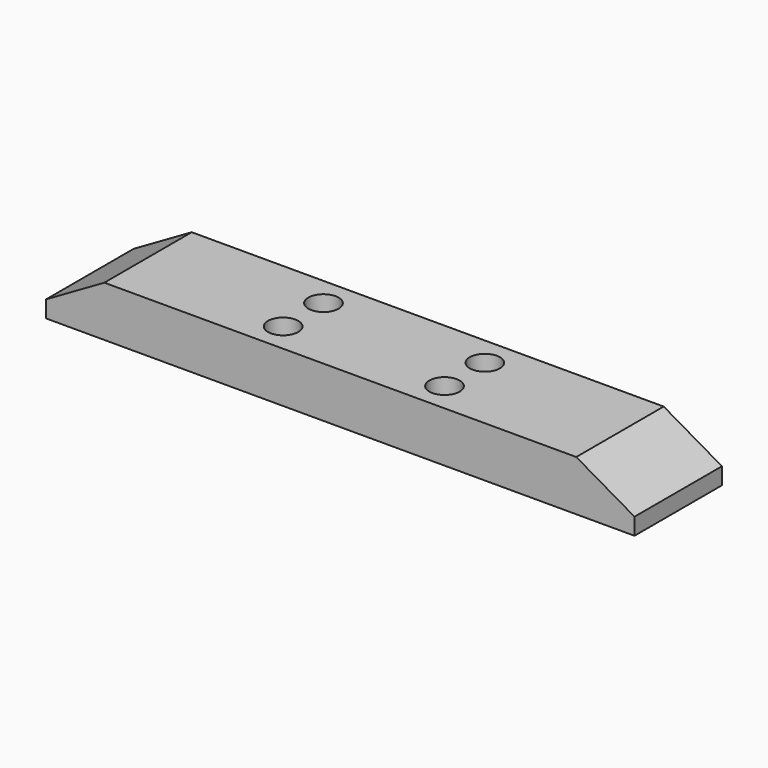
from build123d import *

# Parameters (mm, degrees)
F0_W           = 350
F0_H           = 65
F1_DEPTH       = 30
F3_D           = 11
F3_CBORE_D     = 18
F3_CBORE_DEPTH = 10
F4_SIZE2       = 34.6410161514
F4_SIZE        = 20
F4_2_SIZE2     = 34.6410161514
F4_2_SIZE      = 20


with BuildPart() as f1:
    # F0 (on Top) → F1 (new body)
    with BuildSketch(Plane.XY):
        Rectangle(F0_W, F0_H)
    extrude(amount=F1_DEPTH)

    # F3 (through all)
    with Locations(Plane.XY.offset(30)):
        with Locations((-48, 15), (48, 15), (48, -15), (-48, -15)):
            CounterBoreHole(F3_D / 2, F3_CBORE_D / 2, F3_CBORE_DEPTH)

    # F4
    f4_edges = [f1.edges().sort_by_distance(p)[0] for p in [
        (-175, 0, 30),
    ]]
    f4_side = f1.faces().sort_by_distance((-175, 0, 15))[0]
    chamfer(f4_edges, length=F4_SIZE, length2=F4_SIZE2, reference=f4_side)

    # F4#2
    f4_2_edges = [f1.edges().sort_by_distance(p)[0] for p in [
        (175, 0, 30),
    ]]
    f4_2_side = f1.faces().sort_by_distance((175, 0, 15))[0]
    chamfer(f4_2_edges, length=F4_2_SIZE, length2=F4_2_SIZE2, reference=f4_2_side)


solid = f1.part
